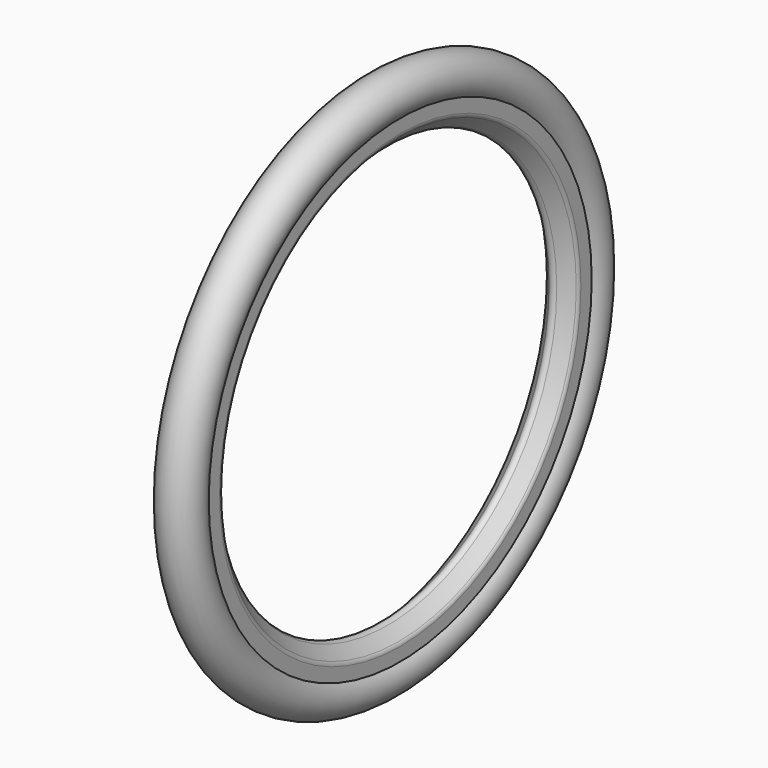
from build123d import *


with BuildPart() as f1:
    # F0 (on Top) → F1 (revolve)
    with BuildSketch(Plane.XY):
        with BuildLine():
            ThreePointArc((2.828427, -156.103516), (0, -154.931943), (-2.828427, -156.103516))
            Line((-2.828427, -156.103516), (-10.828427, -164.103516))
            ThreePointArc((-10.828427, -164.103516), (-11.695518, -165.40121), (-12, -166.931943))
            Line((-12, -166.931943), (-12, -176.931943))
            ThreePointArc((-12, -176.931943), (0, -203.2), (12, -176.931943))
            Line((12, -176.931943), (12, -166.931943))
            ThreePointArc((12, -166.931943), (11.695518, -165.40121), (10.828427, -164.103516))
            Line((10.828427, -164.103516), (2.828427, -156.103516))
        make_face()
    revolve(axis=Axis((-7.103204, 0, 0), (-1, 0, 0)))


solid = f1.part
